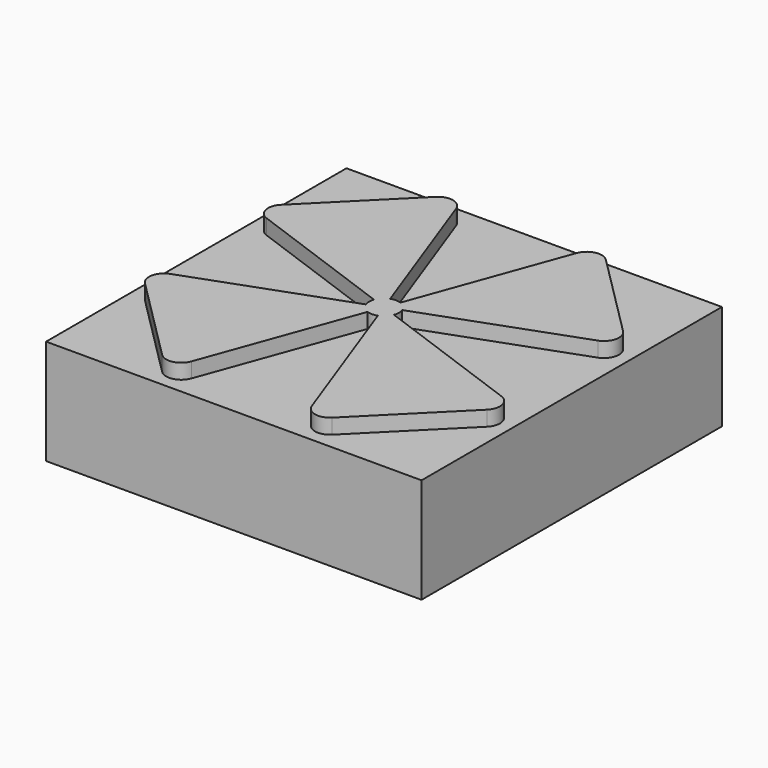
from build123d import *

# Parameters (mm, degrees)
F0_W     = 25
F0_H     = 25
F1_DEPTH = 7
F2_R     = 2.5
F3_DEPTH = 2
F5_DEPTH = 1
F6_R     = 1


with BuildPart() as f1:
    # F0 (on Top) → F1 (new body)
    with BuildSketch(Plane.XY):
        Rectangle(F0_W, F0_H)
    extrude(amount=F1_DEPTH)

    # F2 (on face) → F3 (cut)
    with BuildSketch(Plane(origin=(0, 0, 0), x_dir=(1, 0, 0), z_dir=(0, 0, -1))):
        Circle(F2_R)
    extrude(amount=-F3_DEPTH, mode=Mode.SUBTRACT)

    # F4 (on face) → F5 (join)
    with BuildSketch(Plane.XY.offset(7)):
        with BuildLine():
            Line((-12.5, 4.5496279283), (-0.9396926208, 0.3420201433))
            ThreePointArc((-0.9396926208, 0.3420201433), (-1, 0), (-0.9396926208, -0.3420201433))
            Line((-0.9396926208, -0.3420201433), (-12.5, -4.5496279283))
            Line((-12.5, -4.5496279283), (-4.5496279283, -12.5))
            Line((-4.5496279283, -12.5), (-0.3420201433, -0.9396926208))
            ThreePointArc((-0.3420201433, -0.9396926208), (0, -1), (0.3420201433, -0.9396926208))
            Line((0.3420201433, -0.9396926208), (4.5496279283, -12.5))
            Line((4.5496279283, -12.5), (12.5, -4.5496279283))
            Line((12.5, -4.5496279283), (0.9396926208, -0.3420201433))
            ThreePointArc((0.9396926208, -0.3420201433), (1, 0), (0.9396926208, 0.3420201433))
            Line((0.9396926208, 0.3420201433), (12.5, 4.5496279283))
            Line((12.5, 4.5496279283), (4.5496279283, 12.5))
            Line((4.5496279283, 12.5), (0.3420201433, 0.9396926208))
            ThreePointArc((0.3420201433, 0.9396926208), (0, 1), (-0.3420201433, 0.9396926208))
            Line((-0.3420201433, 0.9396926208), (-4.5496279283, 12.5))
            Line((-4.5496279283, 12.5), (-12.5, 4.5496279283))
        make_face()
    extrude(amount=F5_DEPTH)

    # F6
    f6_edges = [f1.edges().sort_by_distance(p)[0] for p in [
        (-12.5, 4.549628, 7.5),
        (-4.549628, 12.5, 7.5),
        (4.549628, 12.5, 7.5),
        (12.5, 4.549628, 7.5),
        (4.549628, -12.5, 7.5),
        (12.5, -4.549628, 7.5),
        (-4.549628, -12.5, 7.5),
        (-12.5, -4.549628, 7.5),
    ]]
    fillet(f6_edges, radius=F6_R)


solid = f1.part
